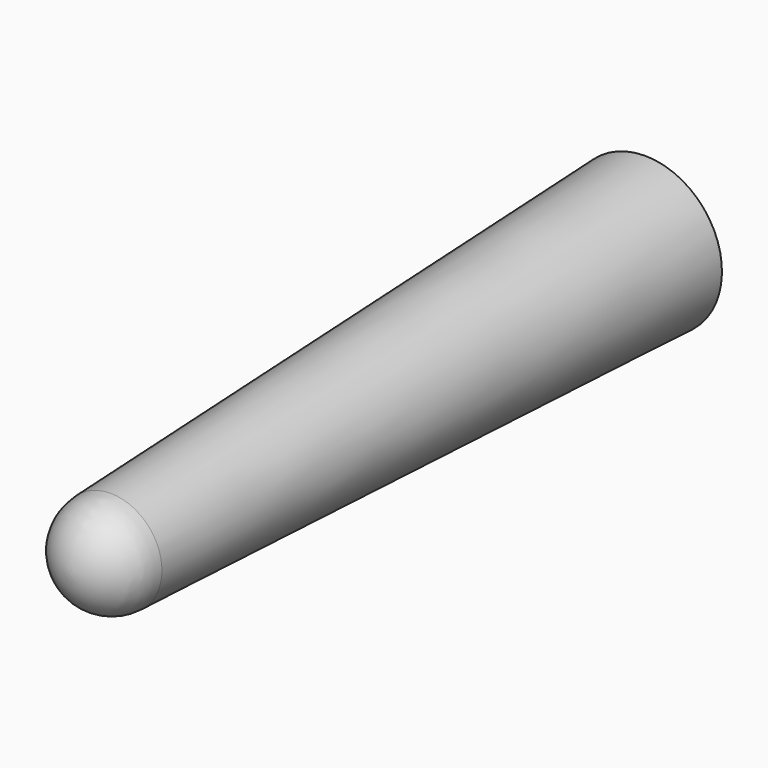
from build123d import *


with BuildPart() as f1:
    # F0 (on Right) → F1 (revolve)
    with BuildSketch(Plane.YZ):
        with BuildLine():
            ThreePointArc((-122.854715, 20), (-136.670377, 13.965123), (-142.350834, 0))
            Line((-142.350834, 0), (137.649166, 0))
            Line((137.649166, 0), (137.649166, 30))
            Line((137.649166, 30), (-122.854715, 20))
        make_face()
    revolve(axis=Axis((0, -2.350834, 0), (0, 1, 0)))


solid = f1.part
